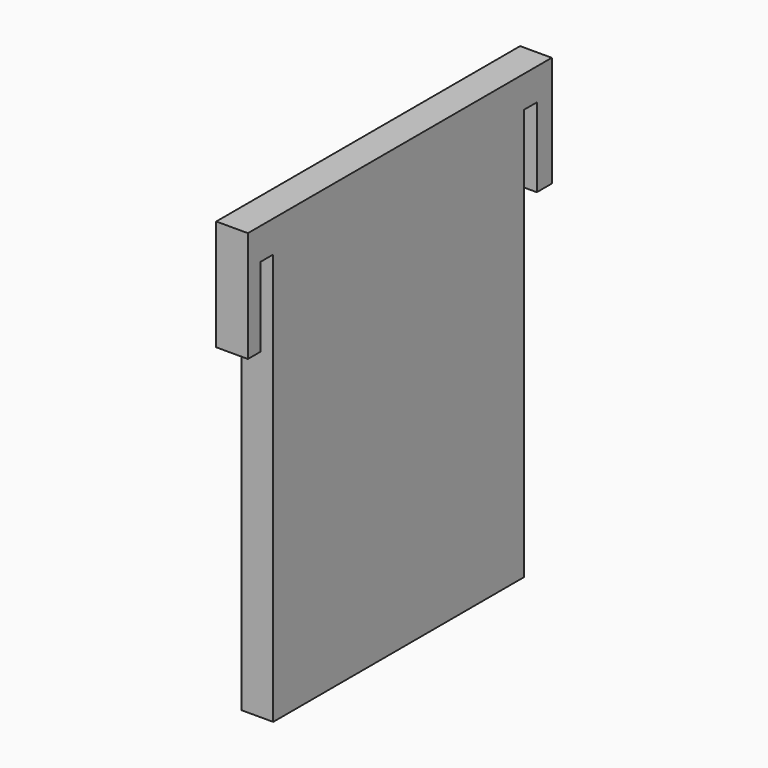
from build123d import *

# Parameters (mm, degrees)
BOX003_W     = 10
BOX003_H     = 5.1
BOX003_DEPTH = 25
BOX002_W     = 10
BOX002_H     = 5.1
BOX002_DEPTH = 25
BOX001_W     = 10
BOX001_H     = 120
BOX001_DEPTH = 35
BOX_W        = 10
BOX_H        = 99
BOX_DEPTH    = 140


with BuildPart() as cube003:
    # Box003 → Box003 (new body)
    with BuildSketch(Plane(origin=(0, 99, 75), x_dir=(1, 0, 0), z_dir=(0, 0, 1))):
        with Locations((5, 2.55)):
            Rectangle(BOX003_W, BOX003_H)
    extrude(amount=BOX003_DEPTH)


with BuildPart() as cube002:
    # Box002 → Box002 (new body)
    with BuildSketch(Plane(origin=(0, -5.1, 75), x_dir=(1, 0, 0), z_dir=(0, 0, 1))):
        with Locations((5, 2.55)):
            Rectangle(BOX002_W, BOX002_H)
    extrude(amount=BOX002_DEPTH)


with BuildPart() as cut001:
    # Box001 → Box001 (new body)
    with BuildSketch(Plane(origin=(0, -10, 75), x_dir=(1, 0, 0), z_dir=(0, 0, 1))):
        with Locations((5, 60)):
            Rectangle(BOX001_W, BOX001_H)
    extrude(amount=BOX001_DEPTH)

    # Cut: cut Cube002
    add(cube002.part, mode=Mode.SUBTRACT)

    # Cut001: cut Cube003
    add(cube003.part, mode=Mode.SUBTRACT)


with BuildPart() as fusion:
    # Box → Box (new body)
    with BuildSketch(Plane.XY.offset(-30)):
        with Locations((5, 49.5)):
            Rectangle(BOX_W, BOX_H)
    extrude(amount=BOX_DEPTH)

    # Fusion: union Cut001
    add(cut001.part)


solid = fusion.part
